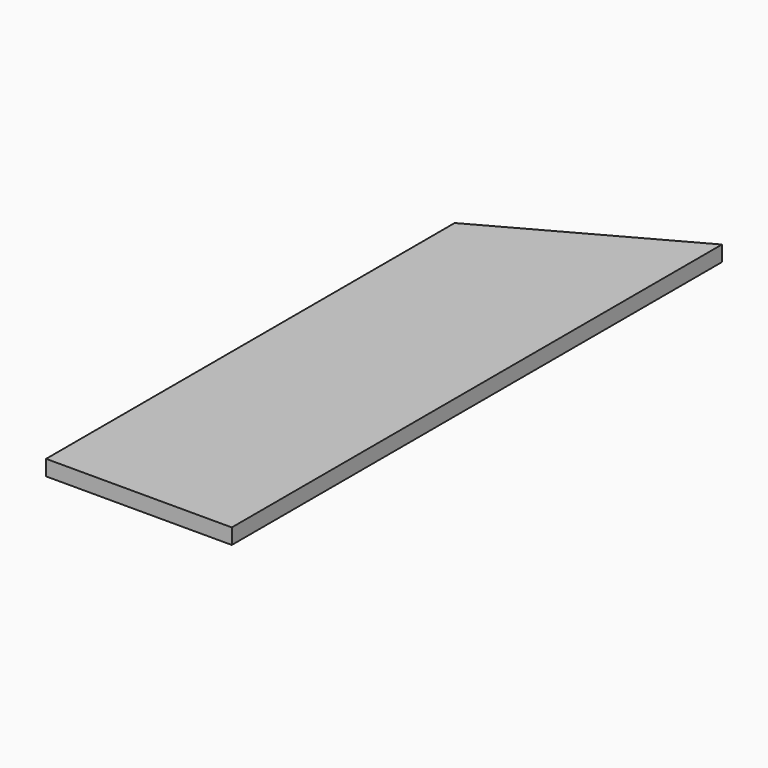
from build123d import *

# Parameters (mm, degrees)
F0_W     = 38.1
F0_H     = 104.775
F1_DEPTH = 3.175


with BuildPart() as f1:
    # F0 (on Top) → F1 (new body)
    with BuildSketch(Plane.XY):
        Rectangle(F0_W, F0_H)
        Polygon((-19.05, 52.3875), (19.05, 52.3875), (19.05, 73.310703), align=None)
    extrude(amount=F1_DEPTH)


solid = f1.part
